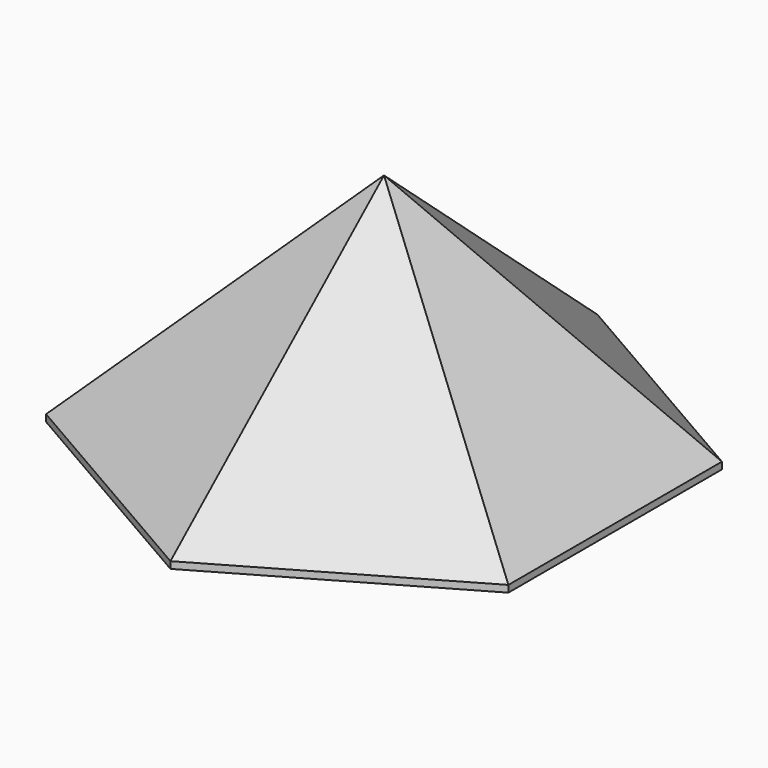
from build123d import *

# Parameters (mm, degrees)
F1_DEPTH = 50.8
F2_SIZE  = 49.34077


with BuildPart() as f1:
    # F0 (on Top) → F1 (new body)
    with BuildSketch(Plane.XY):
        Polygon((49.3408840265, 0), (49.3408840265, 28.4869726747), (0, 56.9739453495), (-49.3408840265, 28.4869726747), (-49.3408840265, 0), align=None)
        Polygon((49.3408840265, -28.4869726747), (49.3408840265, 0), (-49.3408840265, 0), (-49.3408840265, -28.4869726747), (0, -56.9739453495), align=None)
    extrude(amount=F1_DEPTH)

    # F2
    f2_edges = [f1.edges().sort_by_distance(p)[0] for p in [
        (24.670442, -42.730459, 50.8),
        (49.340884, 0, 50.8),
        (24.670442, 42.730459, 50.8),
        (-24.670442, 42.730459, 50.8),
        (-49.340884, 0, 50.8),
        (-24.670442, -42.730459, 50.8),
    ]]
    chamfer(f2_edges, length=F2_SIZE)


solid = f1.part
